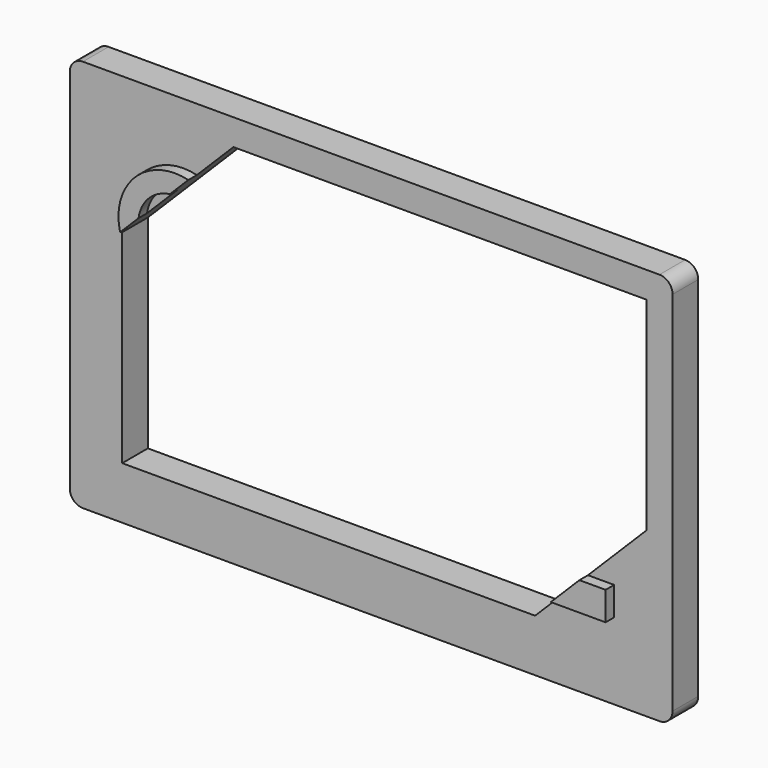
from build123d import *

# Parameters (mm, degrees)
F1_DEPTH = 7.7724
F3_DEPTH = 2.5908


with BuildPart() as f1:
    # F0 (on Front) → F1 (new body)
    with BuildSketch(Plane.XZ):
        with BuildLine():
            Line((103.234232, 6.358632), (-36.465768, 6.358632))
            ThreePointArc((-36.465768, 6.358632), (-38.710832, 5.428696), (-39.640768, 3.183632))
            Line((-39.640768, 3.183632), (-39.640768, -85.716368))
            ThreePointArc((-39.640768, -85.716368), (-38.710832, -87.961432), (-36.465768, -88.891368))
            Line((-36.465768, -88.891368), (103.234232, -88.891368))
            ThreePointArc((103.234232, -88.891368), (105.479296, -87.961432), (106.409232, -85.716368))
            Line((106.409232, -85.716368), (106.409232, 3.183632))
            ThreePointArc((106.409232, 3.183632), (105.479296, 5.428696), (103.234232, 6.358632))
        make_face()
        Polygon((73.109832, -76.191368), (-26.940768, -76.191368), (-26.940768, -26.940768), (0, 0), (100.0506, 0), (100.0506, -49.2506), align=None, mode=Mode.SUBTRACT)
    extrude(amount=F1_DEPTH)

    # F2 (on face) → F3 (join)
    with BuildSketch(Plane.XZ.offset(7.7724)):
        Polygon((92.259605, -63.391595), (85.909605, -63.391595), (78.975405, -70.325795), (92.259605, -70.325795), align=None)
        with BuildLine():
            Line((-13.315965, -13.315965), (-8.851652, -8.851652))
            ThreePointArc((-8.851652, -8.851652), (-21.769924, -12.460644), (-25.378917, -25.378917))
            Line((-25.378917, -25.378917), (-20.914603, -20.914603))
            ThreePointArc((-20.914603, -20.914603), (-18.393348, -15.837221), (-13.315965, -13.315965))
        make_face()
    extrude(amount=F3_DEPTH)


solid = f1.part
